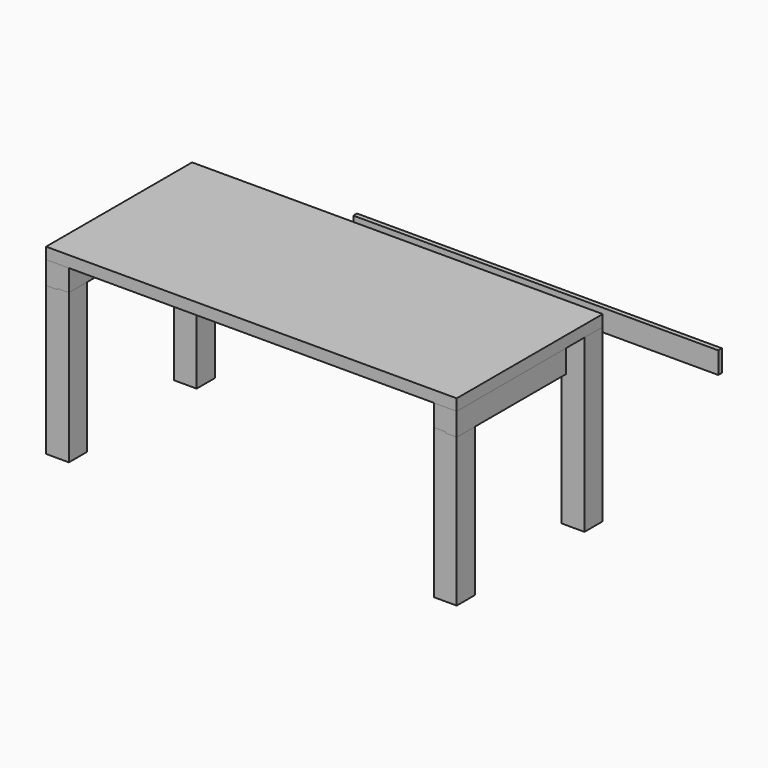
from build123d import *

# Parameters (mm, degrees)
F0_W     = 1800
F0_H     = 800
F1_DEPTH = 50
F2_W     = 100
F2_H     = 100
F3_DEPTH = 750
F5_DEPTH = 600
F7_DEPTH = 5
F8_W     = 1600
F8_H     = 20
F9_DEPTH = 95


with BuildPart() as f1:
    # F0 (on Top) → F1 (new body)
    with BuildSketch(Plane.XY):
        with Locations((900, 400)):
            Rectangle(F0_W, F0_H)
    extrude(amount=F1_DEPTH)


with BuildPart() as f3:
    # F2 (on Top) → F3 (new body)
    with BuildSketch(Plane.XY):
        with Locations((50, 50)):
            Rectangle(F2_W, F2_H)
        with Locations((1750, 50)):
            Rectangle(F2_W, F2_H)
        with Locations((1750, 750)):
            Rectangle(F2_W, F2_H)
        with Locations((50, 750)):
            Rectangle(F2_W, F2_H)
    extrude(amount=-F3_DEPTH)


with BuildPart() as f5:
    # F4 (on Front) → F5 (new body)
    with BuildSketch(Plane.XZ):
        Polygon((100, 0), (0, 0), (0, -100), (50, -100), (50, -95), (100, -95), align=None)
        Polygon((1750, -95), (1750, -100), (1800, -100), (1800, 0), (1700, 0), (1700, -95), align=None)
    extrude(amount=-F5_DEPTH)


with BuildPart() as f7:
    # F6 (on Top) → F7 (new body)
    with BuildSketch(Plane.XY):
        Polygon((100, 100), (100, 10), (1700, 10), (1700, 100), (1750, 100), (1750, 500), (50, 500), (50, 100), align=None)
    extrude(amount=-F7_DEPTH)


with BuildPart() as f9:
    # F8 (on Top) → F9 (new body)
    with BuildSketch(Plane.XY):
        with Locations((1417.168561, 921.799362)):
            Rectangle(F8_W, F8_H)
    extrude(amount=-F9_DEPTH)


solid = Compound([f1.part, f3.part, f5.part, f7.part, f9.part])
